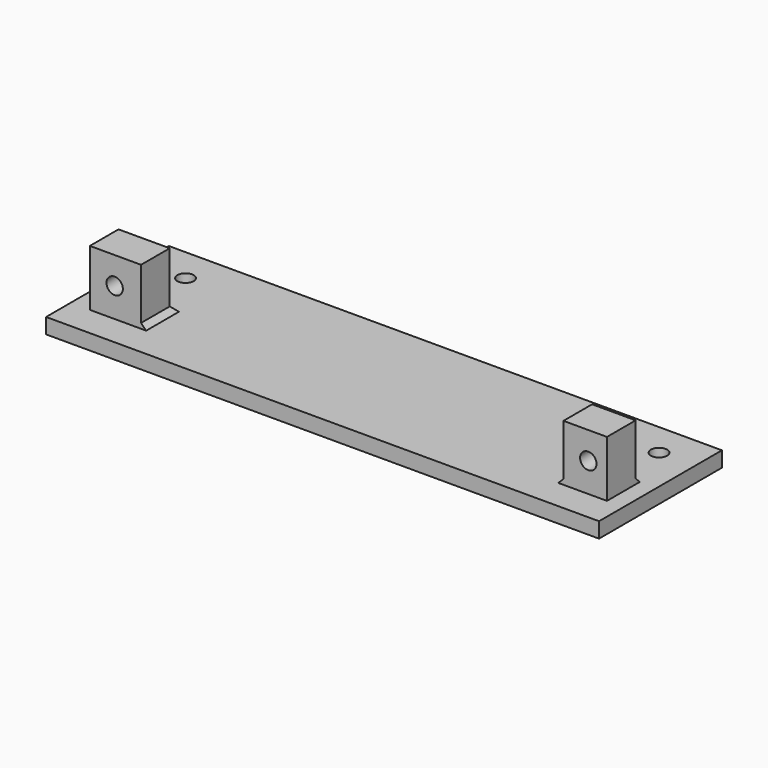
from build123d import *

# Parameters (mm, degrees)
CYLINDER030_R          = 1.6
CYLINDER030_DEPTH      = 10
CYLINDER030_ROLL_ANGLE = 90
CYLINDER018_R          = 1.6
CYLINDER018_DEPTH      = 10
PRISM001_DEPTH         = 3
BOX021_W               = 8.5
BOX021_H               = 11
BOX021_DEPTH           = 7
CYLINDER029_R          = 1.6
CYLINDER029_DEPTH      = 10
CYLINDER029_ROLL_ANGLE = 90
CYLINDER016_R          = 1.6
CYLINDER016_DEPTH      = 10
CYLINDER016_ROLL_ANGLE = 90
BOX004_W               = 108
BOX004_H               = 3
BOX004_DEPTH           = 30
CYLINDER014_R          = 1.6
CYLINDER014_DEPTH      = 10
CYLINDER014_ROLL_ANGLE = 90
PRISM_DEPTH            = 3
BOX020_W               = 10
BOX020_H               = 11
BOX020_DEPTH           = 7
CHAMFER004_SIZE        = 1
CHAMFER004_ROLL_ANGLE  = 90


with BuildPart() as cylinder030:
    # Cylinder030 → Cylinder030 (new body)
    with BuildSketch(Plane.XY):
        Circle(CYLINDER030_R)
    extrude(amount=CYLINDER030_DEPTH)


with BuildPart() as cylinder030_1:
    # Cylinder030 roll: moved
    add(cylinder030.part.rotate(Axis((0, 0, 0), (1, 0, 0)), CYLINDER030_ROLL_ANGLE))


with BuildPart() as cylinder030_2:
    # Cylinder030 placement: moved
    add(cylinder030_1.part.moved(Location((3.6, -31.31, 8.7))))


with BuildPart() as cylinder018:
    # Cylinder018 → Cylinder018 (new body)
    with BuildSketch(Plane(origin=(3.6, 5.69, -5), x_dir=(1, 0, 0), z_dir=(0, 0, 1))):
        Circle(CYLINDER018_R)
    extrude(amount=CYLINDER018_DEPTH)


with BuildPart() as prism001:
    # Prism001 → Prism001 (new body)
    with BuildSketch(Plane(origin=(3.6, 5.69, -7), x_dir=(1, 0, 0), z_dir=(0, 0, 1))):
        Polygon((3, 0), (1.5, 2.598076), (-1.5, 2.598076), (-3, 0), (-1.5, -2.598076), (1.5, -2.598076), align=None)
    extrude(amount=PRISM001_DEPTH)


with BuildPart() as cut008:
    # Box021 → Box021 (new body)
    with BuildSketch(Plane(origin=(-1.25, 0, -7), x_dir=(1, 0, 0), z_dir=(0, 0, 1))):
        with Locations((4.25, 5.5)):
            Rectangle(BOX021_W, BOX021_H)
    extrude(amount=BOX021_DEPTH)

    # Cut007: cut Prism001
    add(prism001.part, mode=Mode.SUBTRACT)


with BuildPart() as cut008_1:
    # Cut007 placement: moved
    add(cut008.part.moved(Location((0, 0, -1))))

    # Cut008: cut Cylinder018
    add(cylinder018.part, mode=Mode.SUBTRACT)


with BuildPart() as cut008_2:
    # Cut008 placement: moved
    add(cut008_1.part.moved(Location((92.5, 0, 0))))


with BuildPart() as cylinder029:
    # Cylinder029 → Cylinder029 (new body)
    with BuildSketch(Plane.XY):
        Circle(CYLINDER029_R)
    extrude(amount=CYLINDER029_DEPTH)


with BuildPart() as cylinder029_1:
    # Cylinder029 roll: moved
    add(cylinder029.part.rotate(Axis((0, 0, 0), (1, 0, 0)), CYLINDER029_ROLL_ANGLE))


with BuildPart() as cylinder029_2:
    # Cylinder029 placement: moved
    add(cylinder029_1.part.moved(Location((3.6, 5.69, -18.3))))


with BuildPart() as fusion010:
    # Cylinder016 → Cylinder016 (new body)
    with BuildSketch(Plane.XY):
        Circle(CYLINDER016_R)
    extrude(amount=CYLINDER016_DEPTH)


with BuildPart() as fusion010_1:
    # Cylinder016 roll: moved
    add(fusion010.part.rotate(Axis((0, 0, 0), (1, 0, 0)), CYLINDER016_ROLL_ANGLE))


with BuildPart() as fusion010_2:
    # Cylinder016 placement: moved
    add(fusion010_1.part.moved(Location((96, 5.69, -18.4))))

    # Fusion010: union Cylinder029
    add(cylinder029_2.part)


with BuildPart() as right_with_holes:
    # Box004 → Box004 (new body)
    with BuildSketch(Plane(origin=(-5, -3, -25), x_dir=(1, 0, 0), z_dir=(0, 0, 1))):
        with Locations((54, 1.5)):
            Rectangle(BOX004_W, BOX004_H)
    extrude(amount=BOX004_DEPTH)

    # Cut028: cut Fusion010
    add(fusion010_2.part, mode=Mode.SUBTRACT)


with BuildPart() as cylinder014:
    # Cylinder014 → Cylinder014 (new body)
    with BuildSketch(Plane.XY):
        Circle(CYLINDER014_R)
    extrude(amount=CYLINDER014_DEPTH)


with BuildPart() as cylinder014_1:
    # Cylinder014 roll: moved
    add(cylinder014.part.rotate(Axis((0, 0, 0), (1, 0, 0)), CYLINDER014_ROLL_ANGLE))


with BuildPart() as cylinder014_2:
    # Cylinder014 placement: moved
    add(cylinder014_1.part.moved(Location((3.6, 5.69, -18.3))))


with BuildPart() as prism:
    # Prism → Prism (new body)
    with BuildSketch(Plane(origin=(3.6, 5.69, -7), x_dir=(1, 0, 0), z_dir=(0, 0, 1))):
        Polygon((3, 0), (1.5, 2.598076), (-1.5, 2.598076), (-3, 0), (-1.5, -2.598076), (1.5, -2.598076), align=None)
    extrude(amount=PRISM_DEPTH)


with BuildPart() as cut029:
    # Box020 → Box020 (new body)
    with BuildSketch(Plane(origin=(-1.25, 0, -7), x_dir=(1, 0, 0), z_dir=(0, 0, 1))):
        with Locations((5, 5.5)):
            Rectangle(BOX020_W, BOX020_H)
    extrude(amount=BOX020_DEPTH)

    # Cut005: cut Prism
    add(prism.part, mode=Mode.SUBTRACT)


with BuildPart() as cut029_1:
    # Cut005 placement: moved
    add(cut029.part.moved(Location((0, 0, -1))))

    # Cut006: cut Cylinder014
    add(cylinder014_2.part, mode=Mode.SUBTRACT)

    # Fusion011: union Cut008, right with holes
    add(cut008_2.part)
    add(right_with_holes.part)

    # Chamfer004
    chamfer004_edges = [cut029_1.edges().sort_by_distance(p)[0] for p in [
        (95.5, 0, -8),
        (91.25, 0, -4.5),
        (8.75, 0, -4.5),
        (3.75, 0, -8),
    ]]
    chamfer(chamfer004_edges, length=CHAMFER004_SIZE)


with BuildPart() as cut029_2:
    # Chamfer004 roll: moved
    add(cut029_1.part.rotate(Axis((0, 0, 0), (1, 0, 0)), CHAMFER004_ROLL_ANGLE))


with BuildPart() as cut029_3:
    # Chamfer004 placement: moved
    add(cut029_2.part.moved(Location((0, -41, 3))))

    # Cut029: cut Cylinder030
    add(cylinder030_2.part, mode=Mode.SUBTRACT)


solid = cut029_3.part
